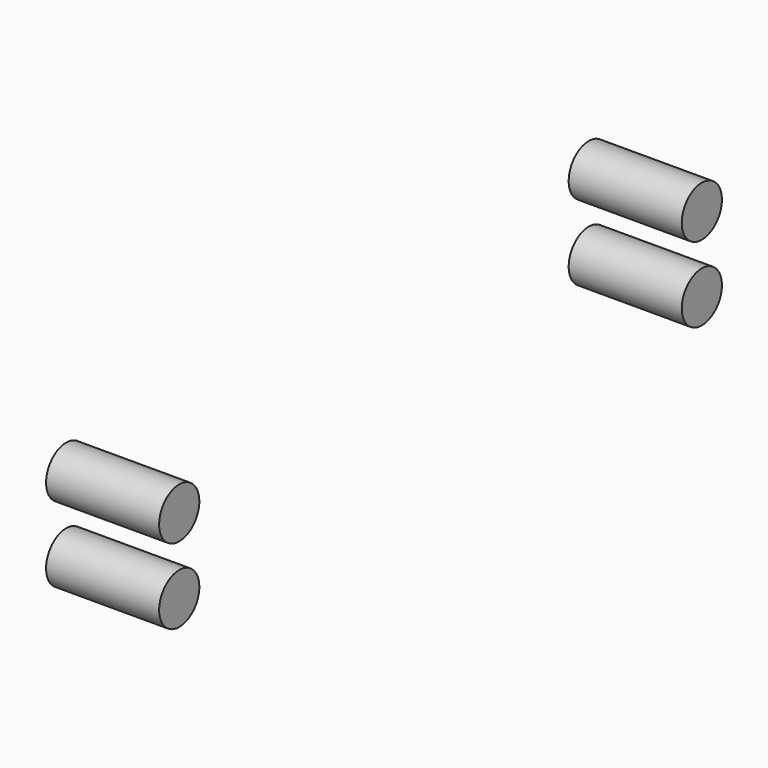
from build123d import *

# Parameters (mm, degrees)
CYLINDER047_R     = 4
CYLINDER047_DEPTH = 18
CYLINDER046_R     = 4
CYLINDER046_DEPTH = 18
CYLINDER045_R     = 4
CYLINDER045_DEPTH = 18
CYLINDER044_R     = 4
CYLINDER044_DEPTH = 18


with BuildPart() as cylinder047:
    # Cylinder047 → Cylinder047 (new body)
    with BuildSketch(Plane(origin=(0, 8, 13.5), x_dir=(0, 0, -1), z_dir=(1, 0, 0))):
        Circle(CYLINDER047_R)
    extrude(amount=CYLINDER047_DEPTH)


with BuildPart() as fusion092:
    # Cylinder046 → Cylinder046 (new body)
    with BuildSketch(Plane(origin=(0, 8, 1.5), x_dir=(0, 0, -1), z_dir=(1, 0, 0))):
        Circle(CYLINDER046_R)
    extrude(amount=CYLINDER046_DEPTH)

    # Fusion092: union Cylinder047
    add(cylinder047.part)


with BuildPart() as fusion092_1:
    # Fusion092 placement: moved
    add(fusion092.part.moved(Location((0, 104, 0))))


with BuildPart() as cylinder045:
    # Cylinder045 → Cylinder045 (new body)
    with BuildSketch(Plane(origin=(0, 8, 13.5), x_dir=(0, 0, -1), z_dir=(1, 0, 0))):
        Circle(CYLINDER045_R)
    extrude(amount=CYLINDER045_DEPTH)


with BuildPart() as fusion091:
    # Cylinder044 → Cylinder044 (new body)
    with BuildSketch(Plane(origin=(0, 8, 1.5), x_dir=(0, 0, -1), z_dir=(1, 0, 0))):
        Circle(CYLINDER044_R)
    extrude(amount=CYLINDER044_DEPTH)

    # Fusion093: union Cylinder045
    add(cylinder045.part)

    # Fusion091: union Fusion092
    add(fusion092_1.part)


with BuildPart() as fusion091_1:
    # Fusion091 placement: moved
    add(fusion091.part.moved(Location((-1.5, 0, 0))))


solid = fusion091_1.part
